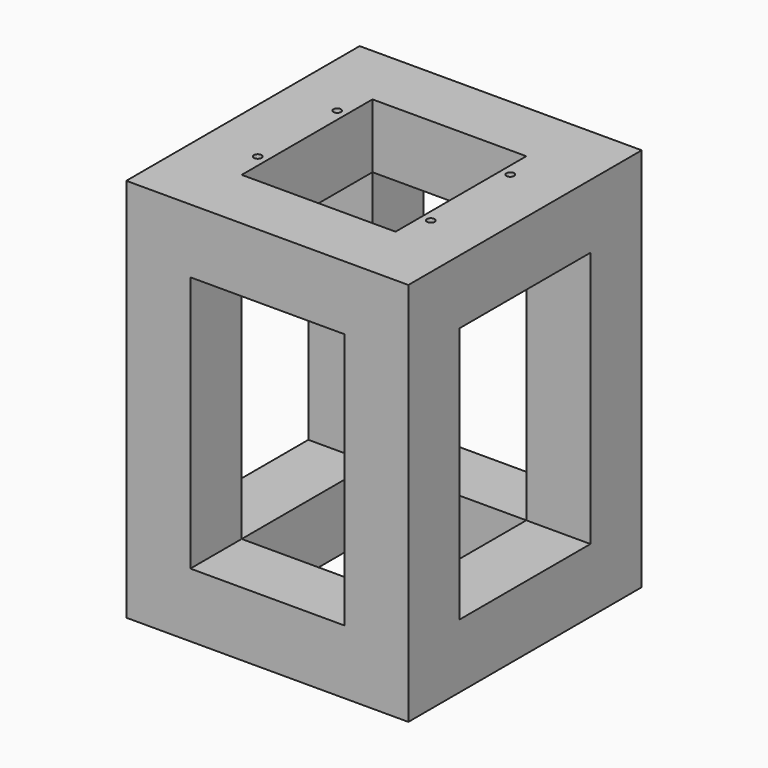
from build123d import *

# Parameters (mm, degrees)
F0_W      = 88
F0_H      = 91
F1_DEPTH  = 20
F2_W      = 20
F2_H      = 91
F3_DEPTH  = 100
F5_W      = 20
F5_H      = 20
F6_DEPTH  = 70
F7_R      = 1.2
F8_DEPTH  = 25
F9_W      = 48
F9_H      = 51
F10_DEPTH = 25
F11_W     = 51
F11_H     = 80
F12_DEPTH = 88.001


with BuildPart() as f1:
    # F0 (on Top) → F1 (new body)
    with BuildSketch(Plane.XY):
        Rectangle(F0_W, F0_H)
        Rectangle(F0_W, F0_H)
    extrude(amount=-F1_DEPTH)

    # F2 (on face) → F3 (join)
    with BuildSketch(Plane.XY):
        with Locations((-34, 0)):
            Rectangle(F2_W, F2_H)
        with Locations((34, 0)):
            Rectangle(F2_W, F2_H)
    extrude(amount=F3_DEPTH)

    # F5 (on face) → F6 (join)
    with BuildSketch(Plane.YZ.offset(44)):
        with Locations((-35.5, 90)):
            Rectangle(F5_W, F5_H)
        with Locations((35.5, 90)):
            Rectangle(F5_W, F5_H)
    extrude(amount=-F6_DEPTH)

    # F7 (on face) → F8 (cut)
    with BuildSketch(Plane.XY.offset(100)):
        with Locations((-27, 15.5)):
            Circle(F7_R)
        with Locations((-27, -15.5)):
            Circle(F7_R)
        with Locations((27, 15.5)):
            Circle(F7_R)
        with Locations((27, -15.5)):
            Circle(F7_R)
    extrude(amount=-F8_DEPTH, mode=Mode.SUBTRACT)

    # F9 (on face) → F10 (cut)
    with BuildSketch(Plane(origin=(0, 0, -20), x_dir=(1, 0, 0), z_dir=(0, 0, -1))):
        Rectangle(F9_W, F9_H)
    extrude(amount=-F10_DEPTH, mode=Mode.SUBTRACT)

    # F11 (on face) → F12 (cut, through all)
    with BuildSketch(Plane.YZ.offset(44)):
        with Locations((0, 40)):
            Rectangle(F11_W, F11_H)
    extrude(amount=-F12_DEPTH, mode=Mode.SUBTRACT)


solid = f1.part
